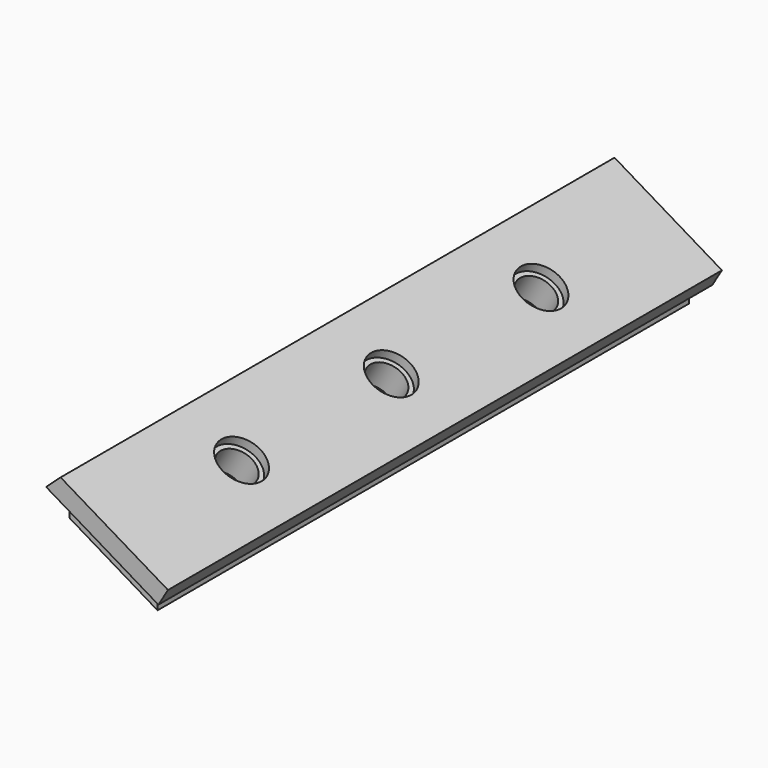
from build123d import *

# Parameters (mm, degrees)
F1_DEPTH       = 37
F2_DEPTH       = 35.5
F4_D           = 4
F4_DEPTH       = 5
F4_CBORE_D     = 5
F4_CBORE_DEPTH = 1
F4_TIP         = 1.2017212381


with BuildPart() as f1:
    # F0 (on Front) → F1 (new body, symmetric)
    with BuildSketch(Plane.XZ):
        Polygon((-1.0269926464, -1.716183587), (0, 0), (-11.4757237546, 6.8672629181), (-13.0274063785, 5.4650624927), (-11.7402686883, 4.6948180079), (-2.3141303366, -0.9459391022), align=None)
    extrude(amount=F1_DEPTH, both=True)

    # F0 (on Front) → F2 (join, symmetric)
    with BuildSketch(Plane.XZ):
        Polygon((-2.3141303366, -3.2766920766), (-2.3141303366, -0.9459391022), (-11.7402686883, 4.6948180079), (-11.7402686883, 2.3640650335), align=None)
    extrude(amount=F2_DEPTH, both=True)

    # F4
    with Locations(Plane(origin=(0, 0, 0), x_dir=(0.8580917935, 0, -0.5134963232), z_dir=(0.5134963232, 0, 0.8580917935))):
        with Locations((-6.6867693185, 20), (-6.6867693185, 0), (-6.6867693185, -20)):
            CounterBoreHole(F4_D / 2, F4_CBORE_D / 2, F4_CBORE_DEPTH, depth=F4_DEPTH)
            with Locations((0, 0, -(F4_DEPTH + F4_TIP / 2))):  # 118° drill point
                Cone(0, F4_D / 2, F4_TIP, mode=Mode.SUBTRACT)


solid = f1.part
